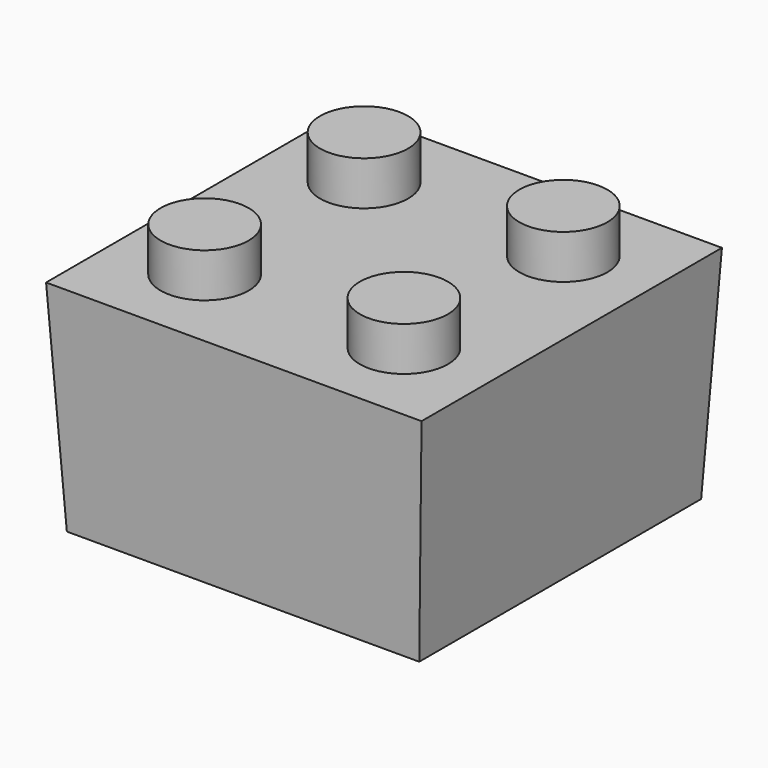
from build123d import *

# Parameters (mm, degrees)
F0_W     = 16
F0_H     = 16
F1_DEPTH = 10
F1_TAPER = -3
F2_R     = 2
F3_DEPTH = 2
F4_T     = -1
F5_R     = 2.8
F6_DEPTH = 9


with BuildPart() as f1:
    # F0 (on Top) → F1 (new body)
    with BuildSketch(Plane.XY):
        Rectangle(F0_W, F0_H)
    extrude(amount=F1_DEPTH, taper=F1_TAPER)

    # F2 (on face) → F3 (join)
    with BuildSketch(Plane.XY.offset(10)):
        with Locations((-4.5240777928, 4.5240777928)):
            Circle(F2_R)
        with Locations((4.5240777928, 4.5240777928)):
            Circle(F2_R)
        with Locations((4.5240777928, -4.5240777928)):
            Circle(F2_R)
        with Locations((-4.5240777928, -4.5240777928)):
            Circle(F2_R)
    extrude(amount=F3_DEPTH)

    # F4
    f4_openings = [f1.faces().sort_by_distance(p)[0] for p in [
        (0, 0, 0),
    ]]
    offset(amount=F4_T, openings=f4_openings, kind=Kind.INTERSECTION)

    # F5 (on face) → F6 (join)
    with BuildSketch(Plane(origin=(0, 0, 9), x_dir=(1, 0, 0), z_dir=(0, 0, -1))):
        with Locations((1.0082904482, 1.2269222643)):
            Circle(F5_R)
    extrude(amount=F6_DEPTH)


solid = f1.part
